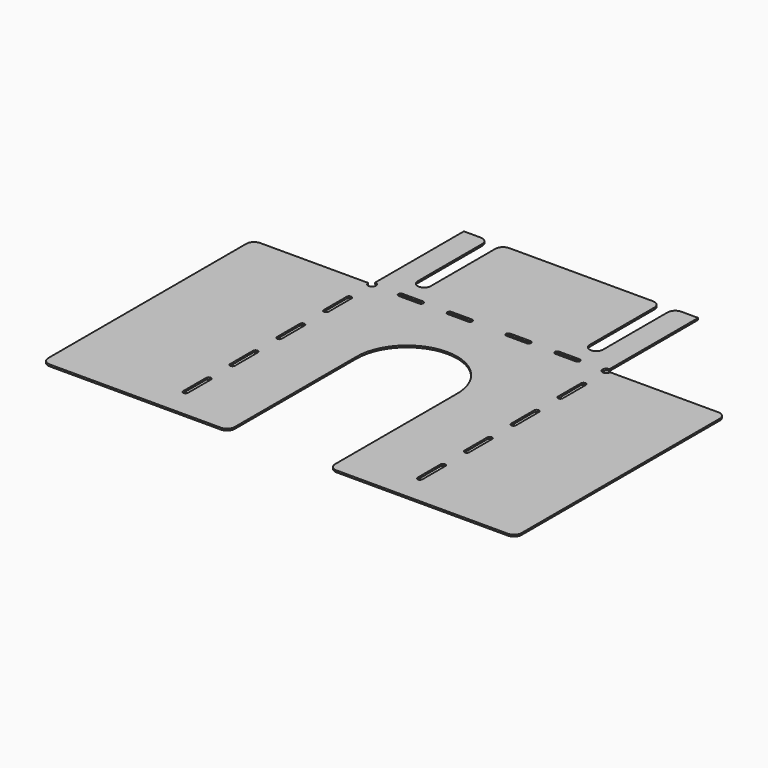
from build123d import *

# Parameters (mm, degrees)
F0_W     = 155.575
F0_H     = 174.625
F0_W_2   = 79.375
F0_H_2   = 76.2
F1_DEPTH = 1.1811
F3_DEPTH = 1.1811
F4_R     = 2.54
F5_DEPTH = 1.1811
F6_R     = 5.08


with BuildPart() as f1:
    # F0 (on Top) → F1 (new body)
    with BuildSketch(Plane.XY):
        with Locations((0, 87.3125)):
            Rectangle(F0_W, F0_H)
        with Locations((-117.475, 87.3125)):
            Rectangle(F0_W_2, F0_H)
        with Locations((117.475, 87.3125)):
            Rectangle(F0_W_2, F0_H)
        with Locations((0, 212.725)):
            Rectangle(F0_W, F0_H_2)
    extrude(amount=F1_DEPTH)

    # F2 (on face) → F3 (cut, through all)
    with BuildSketch(Plane.XY.offset(1.1811)):
        with BuildLine():
            Line((33.3375, 0), (33.3375, 106.3625))
            ThreePointArc((33.3375, 106.3625), (0, 139.7), (-33.3375, 106.3625))
            Line((-33.3375, 106.3625), (-33.3375, 0))
            Line((-33.3375, 0), (33.3375, 0))
        make_face()
        with BuildLine():
            ThreePointArc((-52.7812, 250.825), (-57.15, 255.1938), (-61.5188, 250.825))
            Line((-61.5188, 250.825), (-61.5188, 192.0875))
            ThreePointArc((-61.5188, 192.0875), (-57.15, 187.7187), (-52.7812, 192.0875))
            Line((-52.7812, 192.0875), (-52.7812, 250.825))
        make_face()
        with BuildLine():
            ThreePointArc((61.5188, 250.825), (57.15, 255.1938), (52.7812, 250.825))
            Line((52.7812, 250.825), (52.7812, 192.0875))
            ThreePointArc((52.7812, 192.0875), (57.15, 187.7187), (61.5188, 192.0875))
            Line((61.5188, 192.0875), (61.5188, 250.825))
        make_face()
    extrude(amount=-F3_DEPTH, mode=Mode.SUBTRACT)

    # F4 (on face) → F5 (cut, through all)
    with BuildSketch(Plane.XY.offset(1.1811)):
        with BuildLine():
            ThreePointArc((-76.2, 155.575), (-77.7875, 157.1625), (-79.375, 155.575))
            Line((-79.375, 155.575), (-79.375, 136.525))
            ThreePointArc((-79.375, 136.525), (-77.7875, 134.9375), (-76.2, 136.525))
            Line((-76.2, 136.525), (-76.2, 155.575))
        make_face()
        with BuildLine():
            ThreePointArc((-76.2, 116.713), (-77.7875, 118.3005), (-79.375, 116.713))
            Line((-79.375, 116.713), (-79.375, 97.663))
            ThreePointArc((-79.375, 97.663), (-77.7875, 96.0755), (-76.2, 97.663))
            Line((-76.2, 97.663), (-76.2, 116.713))
        make_face()
        with BuildLine():
            ThreePointArc((-76.2, 77.851), (-77.7875, 79.4385), (-79.375, 77.851))
            Line((-79.375, 77.851), (-79.375, 58.801))
            ThreePointArc((-79.375, 58.801), (-77.7875, 57.2135), (-76.2, 58.801))
            Line((-76.2, 58.801), (-76.2, 77.851))
        make_face()
        with BuildLine():
            ThreePointArc((-76.2, 38.989), (-77.7875, 40.5765), (-79.375, 38.989))
            Line((-79.375, 38.989), (-79.375, 19.939))
            ThreePointArc((-79.375, 19.939), (-77.7875, 18.3515), (-76.2, 19.939))
            Line((-76.2, 19.939), (-76.2, 38.989))
        make_face()
        with BuildLine():
            Line((79.375, 136.525), (79.375, 155.575))
            ThreePointArc((79.375, 155.575), (77.7875, 157.1625), (76.2, 155.575))
            Line((76.2, 155.575), (76.2, 136.525))
            ThreePointArc((76.2, 136.525), (77.7875, 134.9375), (79.375, 136.525))
        make_face()
        with BuildLine():
            Line((79.375, 97.663), (79.375, 116.713))
            ThreePointArc((79.375, 116.713), (77.7875, 118.3005), (76.2, 116.713))
            Line((76.2, 116.713), (76.2, 97.663))
            ThreePointArc((76.2, 97.663), (77.7875, 96.0755), (79.375, 97.663))
        make_face()
        with BuildLine():
            Line((76.2, 77.851), (76.2, 58.801))
            ThreePointArc((76.2, 58.801), (77.7875, 57.2135), (79.375, 58.801))
            Line((79.375, 58.801), (79.375, 77.851))
            ThreePointArc((79.375, 77.851), (77.7875, 79.4385), (76.2, 77.851))
        make_face()
        with BuildLine():
            Line((79.375, 19.939), (79.375, 38.989))
            ThreePointArc((79.375, 38.989), (77.7875, 40.5765), (76.2, 38.989))
            Line((76.2, 38.989), (76.2, 19.939))
            ThreePointArc((76.2, 19.939), (77.7875, 18.3515), (79.375, 19.939))
        make_face()
        with BuildLine():
            ThreePointArc((-58.7375, 176.2125), (-60.325, 174.625), (-58.7375, 173.0375))
            Line((-58.7375, 173.0375), (-45.24375, 173.0375))
            ThreePointArc((-45.24375, 173.0375), (-43.65625, 174.625), (-45.24375, 176.2125))
            Line((-45.24375, 176.2125), (-58.7375, 176.2125))
        make_face()
        with BuildLine():
            ThreePointArc((-26.19375, 176.2125), (-27.78125, 174.625), (-26.19375, 173.0375))
            Line((-26.19375, 173.0375), (-12.7, 173.0375))
            ThreePointArc((-12.7, 173.0375), (-11.1125, 174.625), (-12.7, 176.2125))
            Line((-12.7, 176.2125), (-26.19375, 176.2125))
        make_face()
        with BuildLine():
            ThreePointArc((12.7, 176.2125), (11.1125, 174.625), (12.7, 173.0375))
            Line((12.7, 173.0375), (26.19375, 173.0375))
            ThreePointArc((26.19375, 173.0375), (27.78125, 174.625), (26.19375, 176.2125))
            Line((26.19375, 176.2125), (12.7, 176.2125))
        make_face()
        with BuildLine():
            ThreePointArc((45.24375, 176.2125), (43.65625, 174.625), (45.24375, 173.0375))
            Line((45.24375, 173.0375), (58.7375, 173.0375))
            ThreePointArc((58.7375, 173.0375), (60.325, 174.625), (58.7375, 176.2125))
            Line((58.7375, 176.2125), (45.24375, 176.2125))
        make_face()
        with Locations((-77.7875, 174.625)):
            Circle(F4_R)
        with Locations((77.7875, 174.625)):
            Circle(F4_R)
    extrude(amount=-F5_DEPTH, mode=Mode.SUBTRACT)

    # F6
    f6_edges = [f1.edges().sort_by_distance(p)[0] for p in [
        (-157.1625, 174.625, 0.59055),
        (-61.5188, 250.825, 0.59055),
        (-52.7812, 250.825, 0.59055),
        (52.7812, 250.825, 0.59055),
        (61.5188, 250.825, 0.59055),
        (157.1625, 174.625, 0.59055),
        (-157.1625, 0, 0.59055),
        (33.3375, 0, 0.59055),
        (-33.3375, 0, 0.59055),
        (157.1625, 0, 0.59055),
    ]]
    fillet(f6_edges, radius=F6_R)


solid = f1.part
